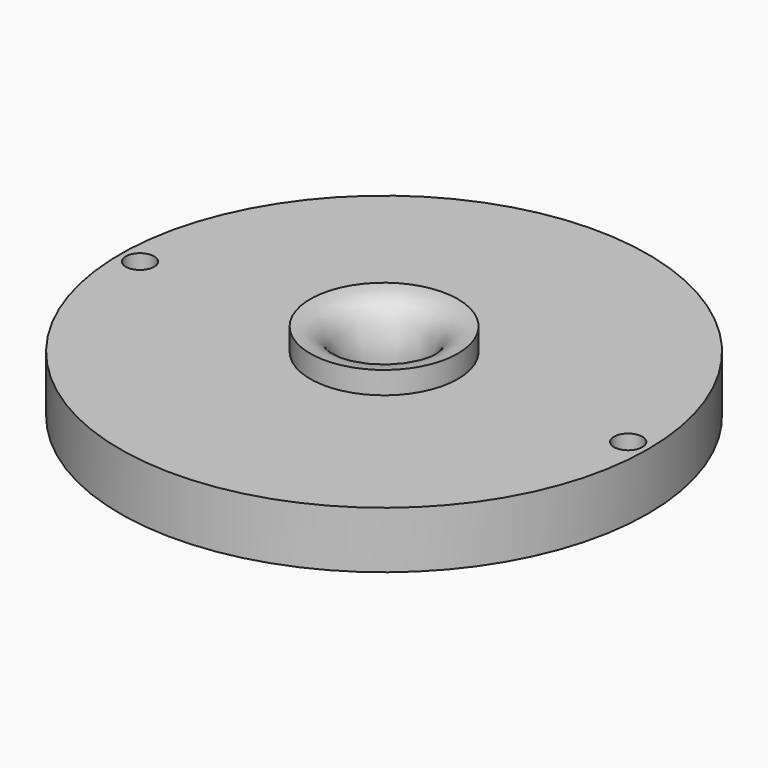
from build123d import *

# Parameters (mm, degrees)
F3_D = 5


with BuildPart() as f1:
    # F0 (on Front) → F1 (revolve)
    with BuildSketch(Plane.XZ):
        with BuildLine():
            add(Edge.make_bspline(
                [(6.5, 1.8021672795), (6.5, 5.4865011201), (6.1573465947, 10.9342258193), (9.3318537328, 15.6719728273), (13, 15.7422021494)],
                knots=[0, 0, 0, 0, 0.5249887043, 1, 1, 1, 1], degree=3))
            Line((6.5, 1.8021672795), (46.5, 1.8021672795))
            Line((46.5, 1.8021672795), (46.5, 11.8021672795))
            Line((46.5, 11.8021672795), (14.9259945566, 11.8021672795))
            Line((14.9259945566, 11.8021672795), (13, 11.8021672795))
            Line((13, 11.8021672795), (13, 12.7422021494))
            Line((13, 12.7422021494), (13, 15.7422021494))
        make_face()
    revolve(axis=Axis((0, 0, 11.9742928073), (0, 0, 1)))

    # F3 (through all)
    with Locations(Plane.XY.offset(11.8021672795)):
        with Locations((-43, 0), (43, 0)):
            Hole(F3_D / 2)


solid = f1.part
